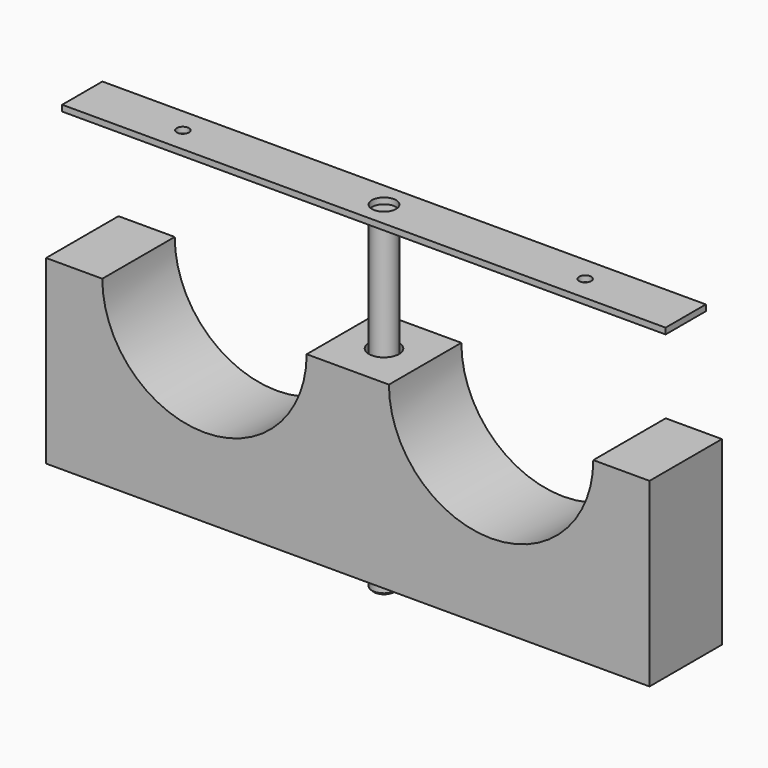
from build123d import *

# Parameters (mm, degrees)
F1_DEPTH      = 45
F2_R          = 7.5
F3_DEPTH      = 90.001
F4_R          = 6
F5_DEPTH      = 15
F5_DEPTH_BACK = 150
F6_W          = 300
F6_H          = 25
F6_R          = 3
F6_R_2        = 6
F7_DEPTH      = 3
F8_R          = 3
F9_DEPTH      = 12.5
F10_SIZE      = 1


with BuildPart() as f1:
    # F0 (on Front) → F1 (new body)
    with BuildSketch(Plane.XZ):
        with BuildLine():
            Line((150, -45), (150, 45))
            Line((150, 45), (122.05, 45))
            ThreePointArc((122.05, 45), (71.25, -5.8), (20.45, 45))
            Line((20.45, 45), (-20.45, 45))
            ThreePointArc((-20.45, 45), (-71.25, -5.8), (-122.05, 45))
            Line((-122.05, 45), (-150, 45))
            Line((-150, 45), (-150, -45))
            Line((-150, -45), (150, -45))
        make_face()
    extrude(amount=-F1_DEPTH)

    # F2 (on face) → F3 (cut, through all)
    with BuildSketch(Plane.XY.offset(45)):
        with Locations((0, 22.5)):
            Circle(F2_R)
    extrude(amount=-F3_DEPTH, mode=Mode.SUBTRACT)


with BuildPart() as f5:
    # F4 (on face) → F5 (new body, two sides)
    with BuildSketch(Plane(origin=(0, 0, -45), x_dir=(1, 0, 0), z_dir=(0, 0, -1))) as f5_sk:
        with Locations((0, -22.5)):
            Circle(F4_R)
    extrude(amount=F5_DEPTH)
    extrude(f5_sk.sketch, amount=-F5_DEPTH_BACK)

    # F8 (on Right) → F9 (cut, symmetric)
    with BuildSketch(Plane.YZ):
        with Locations((22.5, -48)):
            Circle(F8_R)
    extrude(amount=F9_DEPTH, both=True, mode=Mode.SUBTRACT)

    # F10
    f10_edges = [f5.edges().sort_by_distance(p)[0] for p in [
        (-6, 22.5, -60),
    ]]
    chamfer(f10_edges, length=F10_SIZE)


with BuildPart() as f7:
    # F6 (on face) → F7 (new body)
    with BuildSketch(Plane.XY.offset(105)):
        with Locations((0, 22.5)):
            Rectangle(F6_W, F6_H)
        with Locations((-100, 22.5)):
            Circle(F6_R, mode=Mode.SUBTRACT)
        with Locations((0, 22.5)):
            Circle(F6_R_2, mode=Mode.SUBTRACT)
        with Locations((100, 22.5)):
            Circle(F6_R, mode=Mode.SUBTRACT)
    extrude(amount=F7_DEPTH)


solid = Compound([f1.part, f5.part, f7.part])
